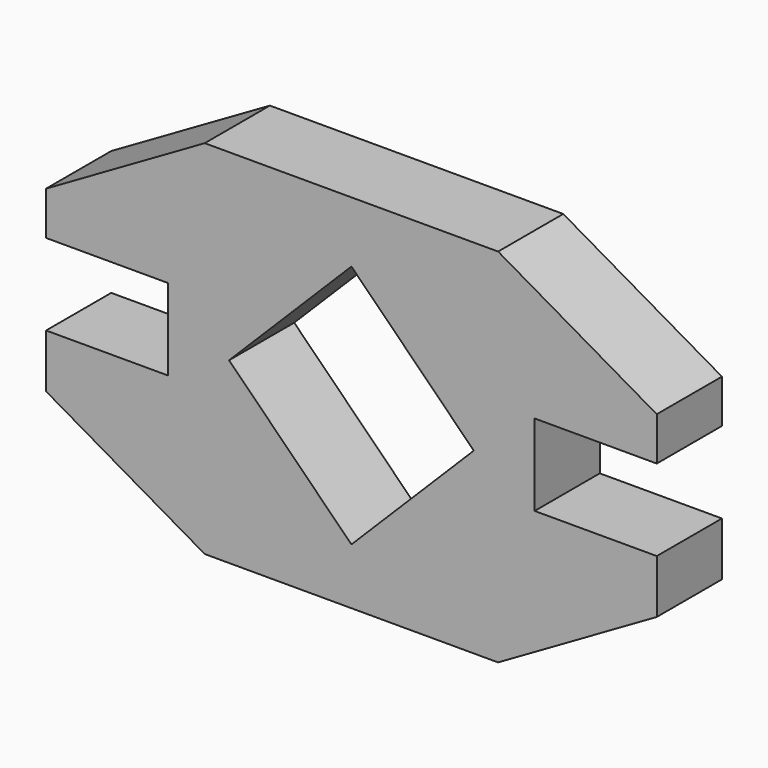
from build123d import *

# Parameters (mm, degrees)
F1_DEPTH = 25.4


with BuildPart() as f1:
    # F0 (on Front) → F1 (new body)
    with BuildSketch(Plane.XZ):
        Polygon((-37.432403, 0.733686), (0, 38.166089), (37.432403, 0.733686), (57.15, 0.733686), (57.15, 15.022763), (95.25, 15.022763), (95.25, 28.575), (45.756648, 57.15), (0, 57.15), (-45.756648, 57.15), (-95.25, 28.575), (-95.25, 15.022763), (-57.15, 15.022763), (-57.15, 0.733686), align=None)
        Polygon((57.15, 0.733686), (37.432403, 0.733686), (38.166089, 0), (0, -38.166089), (-38.166089, 0), (-37.432403, 0.733686), (-57.15, 0.733686), (-57.15, -10.377237), (-95.25, -10.377237), (-95.25, -27.107628), (-45.756648, -55.682628), (45.756648, -55.682628), (95.25, -27.107628), (95.25, -10.377237), (57.15, -10.377237), align=None)
    extrude(amount=F1_DEPTH)


solid = f1.part
